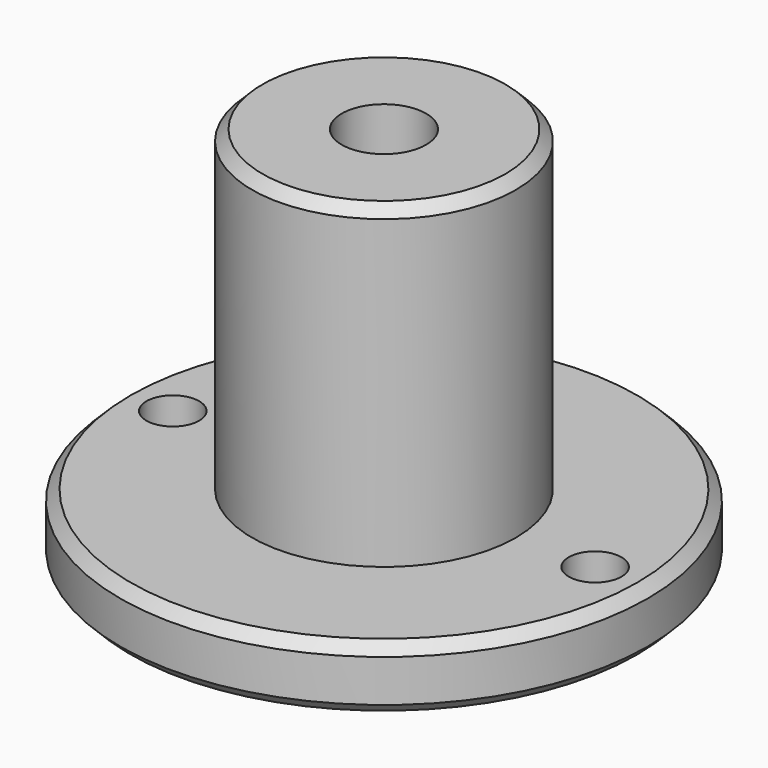
from build123d import *

# Parameters (mm, degrees)
F0_R     = 25
F0_R_2   = 2.5
F0_R_3   = 4
F1_DEPTH = 6
F2_R     = 12.5
F2_R_2   = 4
F3_DEPTH = 30
F4_SIZE  = 1


with BuildPart() as f1:
    # F0 (on Top) → F1 (new body)
    with BuildSketch(Plane.XY):
        Circle(F0_R)
        with Locations((-20, 0)):
            Circle(F0_R_2, mode=Mode.SUBTRACT)
        Circle(F0_R_3, mode=Mode.SUBTRACT)
        with Locations((20, 0)):
            Circle(F0_R_2, mode=Mode.SUBTRACT)
    extrude(amount=F1_DEPTH)

    # F2 (on face) → F3 (join)
    with BuildSketch(Plane.XY.offset(6)):
        Circle(F2_R)
        Circle(F2_R_2, mode=Mode.SUBTRACT)
    extrude(amount=F3_DEPTH)

    # F4
    f4_edges = [f1.edges().sort_by_distance(p)[0] for p in [
        (-12.5, 0, 36),
        (-25, 0, 6),
        (-25, 0, 0),
    ]]
    chamfer(f4_edges, length=F4_SIZE)


solid = f1.part
